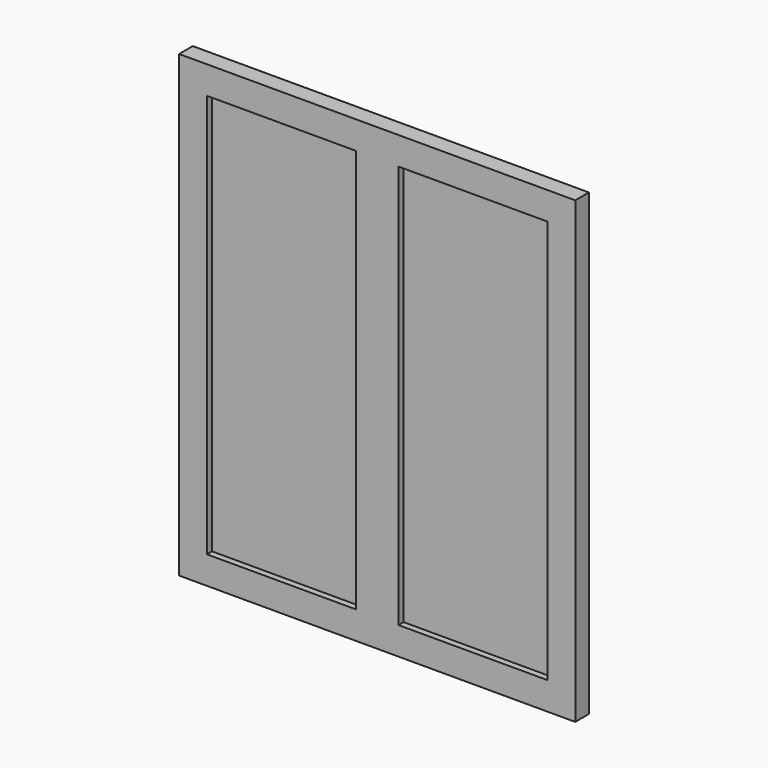
from build123d import *

# Parameters (mm, degrees)
F0_W     = 1855
F0_H     = 2150
F1_DEPTH = 50
F2_W     = 1855
F2_H     = 2150
F2_W_2   = 697.5
F2_H_2   = 1890
F3_DEPTH = 30


with BuildPart() as f1:
    # F0 (on Front) → F1 (new body)
    with BuildSketch(Plane.XZ):
        with Locations((927.5, 1075)):
            Rectangle(F0_W, F0_H)
    extrude(amount=F1_DEPTH)

    # F2 (on face) → F3 (join)
    with BuildSketch(Plane.XZ.offset(50)):
        with Locations((927.5, 1075)):
            Rectangle(F2_W, F2_H)
        with Locations((478.75, 1075)):
            Rectangle(F2_W_2, F2_H_2, mode=Mode.SUBTRACT)
        with Locations((1376.25, 1075)):
            Rectangle(F2_W_2, F2_H_2, mode=Mode.SUBTRACT)
    extrude(amount=F3_DEPTH)


solid = f1.part
